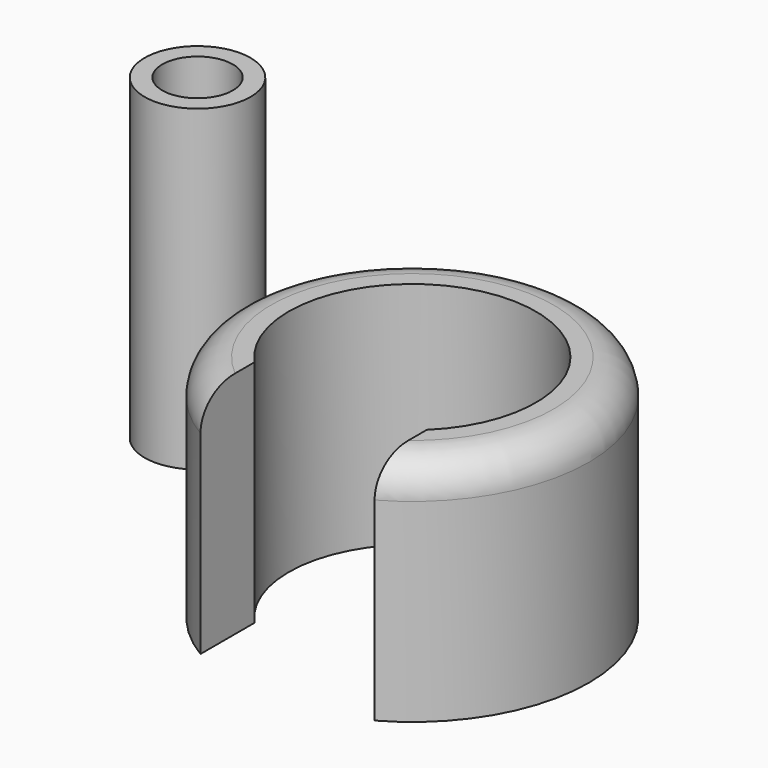
from build123d import *

# Parameters (mm, degrees)
F0_R     = 10
F1_DEPTH = 13
F2_R     = 7
F3_DEPTH = 13
F4_W     = 10
F4_H     = 13
F5_DEPTH = 13
F6_R     = 3
F7_DEPTH = 18
F8_R     = 2
F9_DEPTH = 16
F10_R    = 2


with BuildPart() as f1:
    # F0 (on Top) → F1 (new body)
    with BuildSketch(Plane.XY):
        Circle(F0_R)
    extrude(amount=F1_DEPTH)

    # F2 (on face) → F3 (cut)
    with BuildSketch(Plane.XY.offset(13)):
        Circle(F2_R)
    extrude(amount=-F3_DEPTH, mode=Mode.SUBTRACT)

    # F4 (on face) → F5 (cut)
    with BuildSketch(Plane.XY.offset(13)):
        with Locations((-0.143068, -8.742115)):
            Rectangle(F4_W, F4_H)
    extrude(amount=-F5_DEPTH, mode=Mode.SUBTRACT)

    # F10
    f10_edges = [f1.edges().sort_by_distance(p)[0] for p in [
        (0.165208, 9.998635, 13),
    ]]
    fillet(f10_edges, radius=F10_R)


with BuildPart() as f7:
    # F6 (on Top) → F7 (new body)
    with BuildSketch(Plane.XY):
        with Locations((-18.15955, 7.48986)):
            Circle(F6_R)
    extrude(amount=F7_DEPTH)

    # F8 (on face) → F9 (cut)
    with BuildSketch(Plane.XY.offset(18)):
        with Locations((-18.15955, 7.48986)):
            Circle(F8_R)
    extrude(amount=-F9_DEPTH, mode=Mode.SUBTRACT)


solid = Compound([f1.part, f7.part])
